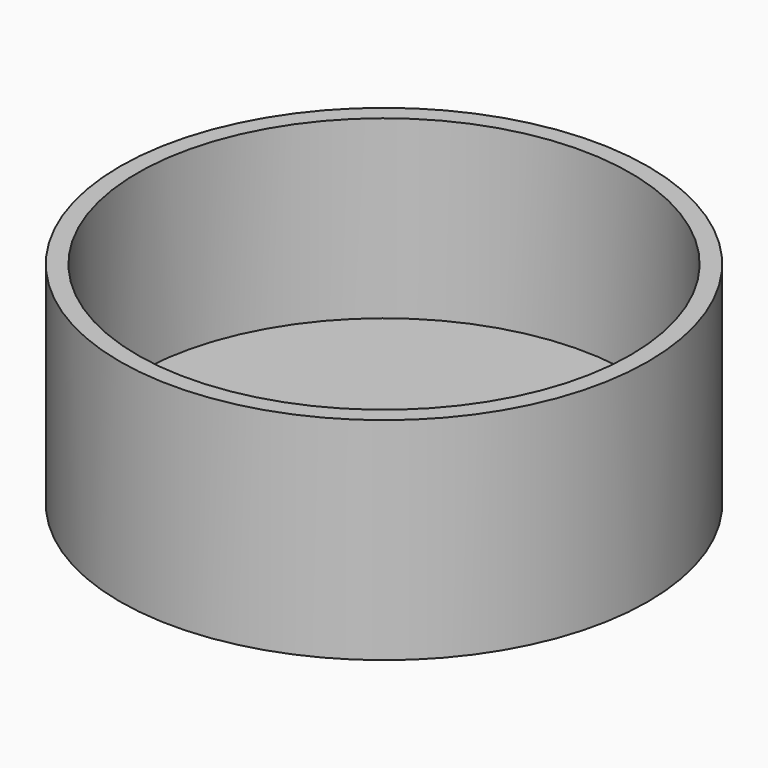
from build123d import *

# Parameters (mm, degrees)
F0_R     = 19.05
F0_R_2   = 17.78
F1_DEPTH = 12.7
F2_R     = 19.05
F3_DEPTH = 2.54


with BuildPart() as f1:
    # F0 (on Top) → F1 (new body)
    with BuildSketch(Plane.XY):
        Circle(F0_R)
        Circle(F0_R_2, mode=Mode.SUBTRACT)
    extrude(amount=F1_DEPTH)

    # F2 (on Top) → F3 (join)
    with BuildSketch(Plane.XY):
        Circle(F2_R)
    extrude(amount=-F3_DEPTH)


solid = f1.part
